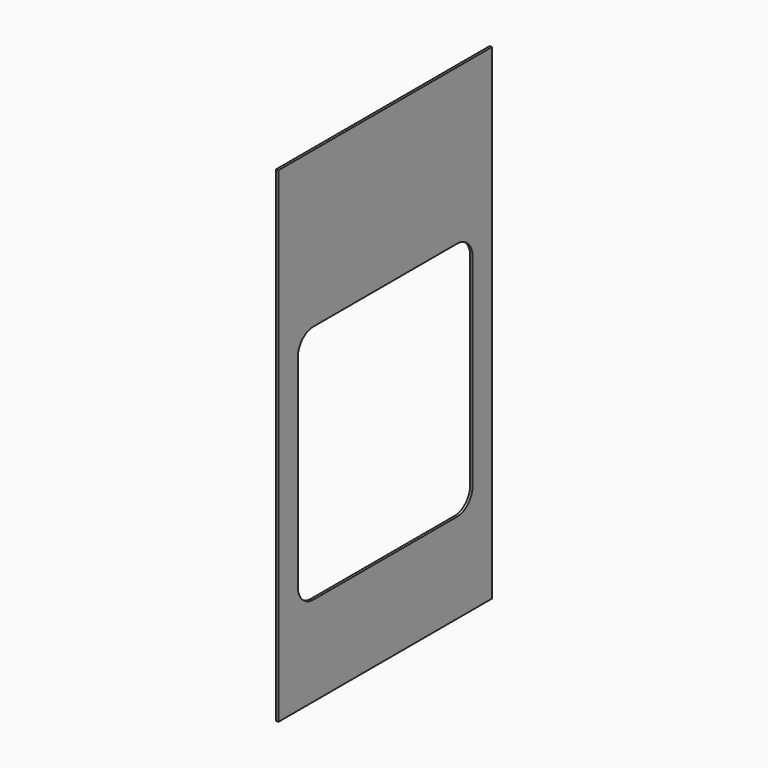
from build123d import *

# Parameters (mm, degrees)
F0_W     = 550
F0_H     = 595
F1_DEPTH = 5
F0_H_2   = 270
F2_DEPTH = 5
F0_H_3   = 135
F3_DEPTH = 5


with BuildPart() as f1:
    # F0 (on Right) → F1 (new body)
    with BuildSketch(Plane.YZ):
        with Locations((-4.257952, 67.584985)):
            Rectangle(F0_W, F0_H)
        with BuildLine():
            ThreePointArc((-229.257952, 275.084985), (-217.542223, 303.369257), (-189.257952, 315.084985))
            Line((-189.257952, 315.084985), (-4.257952, 315.084985))
            Line((-4.257952, 315.084985), (180.742048, 315.084985))
            ThreePointArc((180.742048, 315.084985), (209.026319, 303.369257), (220.742048, 275.084985))
            Line((220.742048, 275.084985), (220.742048, 67.584985))
            Line((220.742048, 67.584985), (220.742048, -139.915015))
            ThreePointArc((220.742048, -139.915015), (209.026319, -168.199286), (180.742048, -179.915015))
            Line((180.742048, -179.915015), (-4.257952, -179.915015))
            Line((-4.257952, -179.915015), (-189.257952, -179.915015))
            ThreePointArc((-189.257952, -179.915015), (-217.542223, -168.199286), (-229.257952, -139.915015))
            Line((-229.257952, -139.915015), (-229.257952, 67.584985))
            Line((-229.257952, 67.584985), (-229.257952, 275.084985))
        make_face(mode=Mode.SUBTRACT)
    extrude(amount=F1_DEPTH)

    # F0 (on Right) → F2 (join)
    with BuildSketch(Plane.YZ):
        with Locations((-4.257952, 500.084985)):
            Rectangle(F0_W, F0_H_2)
    extrude(amount=F2_DEPTH)

    # F0 (on Right) → F3 (join)
    with BuildSketch(Plane.YZ):
        with Locations((-4.257952, -297.415015)):
            Rectangle(F0_W, F0_H_3)
    extrude(amount=F3_DEPTH)


solid = f1.part
